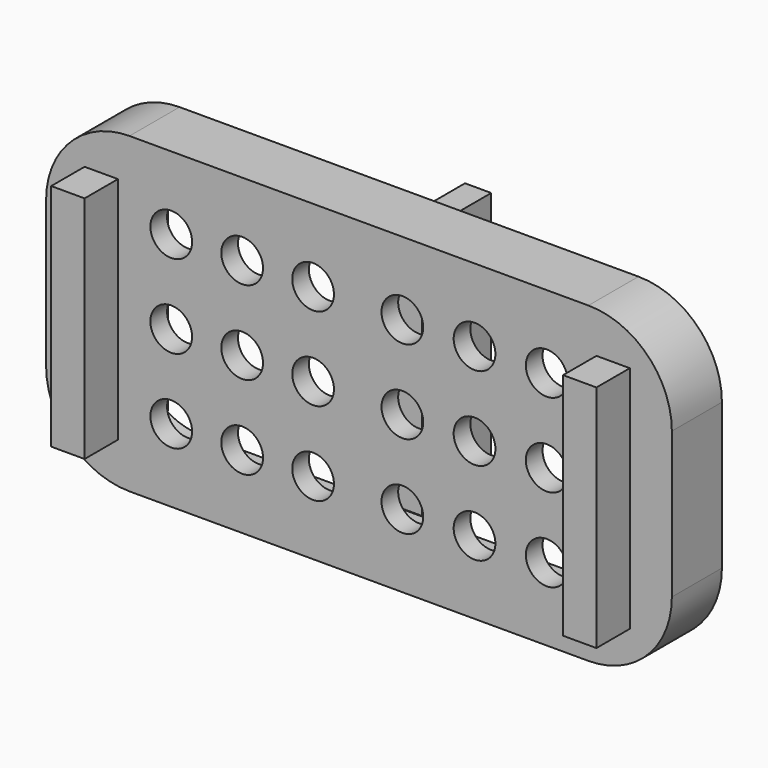
from build123d import *

# Parameters (mm, degrees)
F1_DEPTH = 15
F3_DEPTH = 10
F4_W     = 6.288568
F4_H     = 59.741382
F5_DEPTH = 20.7
F6_R     = 5
F7_DEPTH = 15.001
F8_W     = 8
F8_H     = 55
F9_DEPTH = 25


with BuildPart() as f1:
    # F0 (on Front) → F1 (new body)
    with BuildSketch(Plane.XZ):
        with BuildLine():
            Line((55, 37.5), (-55, 37.5))
            ThreePointArc((-55, 37.5), (-69.142136, 31.642136), (-75, 17.5))
            Line((-75, 17.5), (-75, -17.5))
            ThreePointArc((-75, -17.5), (-69.142136, -31.642136), (-55, -37.5))
            Line((-55, -37.5), (55, -37.5))
            ThreePointArc((55, -37.5), (69.142136, -31.642136), (75, -17.5))
            Line((75, -17.5), (75, 17.5))
            ThreePointArc((75, 17.5), (69.142136, 31.642136), (55, 37.5))
        make_face()
    extrude(amount=F1_DEPTH)

    # F2 (on Front) → F3 (cut)
    with BuildSketch(Plane.XZ):
        with BuildLine():
            ThreePointArc((65, 15), (60.606602, 25.606602), (50, 30))
            Line((50, 30), (-50, 30))
            ThreePointArc((-50, 30), (-60.606602, 25.606602), (-65, 15))
            Line((-65, 15), (-65, -15))
            ThreePointArc((-65, -15), (-60.606602, -25.606602), (-50, -30))
            Line((-50, -30), (50, -30))
            ThreePointArc((50, -30), (60.606602, -25.606602), (65, -15))
            Line((65, -15), (65, 15))
        make_face()
    extrude(amount=F3_DEPTH, mode=Mode.SUBTRACT)

    # F6 (on Front) → F7 (cut, through all)
    with BuildSketch(Plane.XZ):
        with Locations((45, -20)):
            Circle(F6_R)
        with Locations((45, 0)):
            Circle(F6_R)
        with Locations((27.7, 20)):
            Circle(F6_R)
        with Locations((10.4, 20)):
            Circle(F6_R)
        with Locations((27.7, 0)):
            Circle(F6_R)
        with Locations((10.4, 0)):
            Circle(F6_R)
        with Locations((27.7, -20)):
            Circle(F6_R)
        with Locations((10.4, -20)):
            Circle(F6_R)
        with Locations((-45, 20)):
            Circle(F6_R)
        with Locations((-28, 20)):
            Circle(F6_R)
        with Locations((-11, 20)):
            Circle(F6_R)
        with Locations((-45, -20)):
            Circle(F6_R)
        with Locations((-28, -20)):
            Circle(F6_R)
        with Locations((-11, -20)):
            Circle(F6_R)
        with Locations((-45, 0)):
            Circle(F6_R)
        with Locations((-28, 0)):
            Circle(F6_R)
        with Locations((-11, 0)):
            Circle(F6_R)
        with Locations((45, 20)):
            Circle(F6_R)
    extrude(amount=F7_DEPTH, mode=Mode.SUBTRACT)

    # F8 (on Front) → F9 (join)
    with BuildSketch(Plane.XZ):
        with Locations((-61.769237, 0)):
            Rectangle(F8_W, F8_H)
        with Locations((60.923083, 0)):
            Rectangle(F8_W, F8_H)
    extrude(amount=F9_DEPTH)


with BuildPart() as f5:
    # F4 (on Front) → F5 (new body)
    with BuildSketch(Plane.XZ):
        Rectangle(F4_W, F4_H)
    extrude(amount=-F5_DEPTH)


solid = Compound([f1.part, f5.part])
